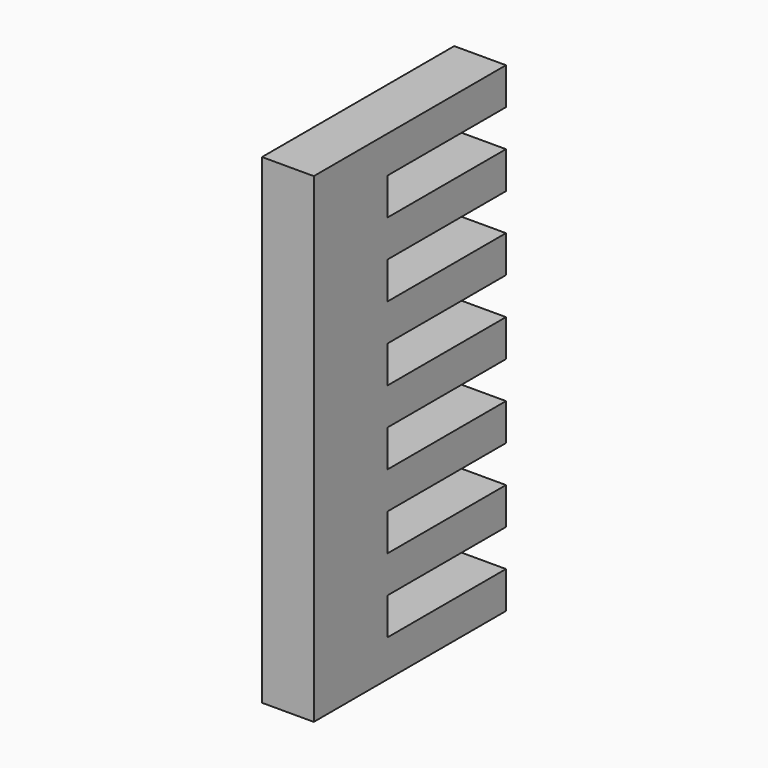
from build123d import *

# Parameters (mm, degrees)
F1_DEPTH = 7


with BuildPart() as f1:
    # F0 (on Right) → F1 (new body)
    with BuildSketch(Plane.YZ):
        Polygon((10.892857, 32.5), (-21.607143, 32.5), (-21.607143, -32.5), (10.892857, -32.5), (10.892857, -27.5), (-9.107143, -27.5), (-9.107143, -22.5), (10.892857, -22.5), (10.892857, -17.5), (-9.107143, -17.5), (-9.107143, -12.5), (10.892857, -12.5), (10.892857, -7.5), (-9.107143, -7.5), (-9.107143, -2.5), (10.892857, -2.5), (10.892857, 2.5), (-9.107143, 2.5), (-9.107143, 7.5), (10.892857, 7.5), (10.892857, 12.5), (-9.107143, 12.5), (-9.107143, 17.5), (10.892857, 17.5), (10.892857, 22.5), (-9.107143, 22.5), (-9.107143, 27.5), (10.892857, 27.5), align=None)
    extrude(amount=F1_DEPTH)


solid = f1.part
